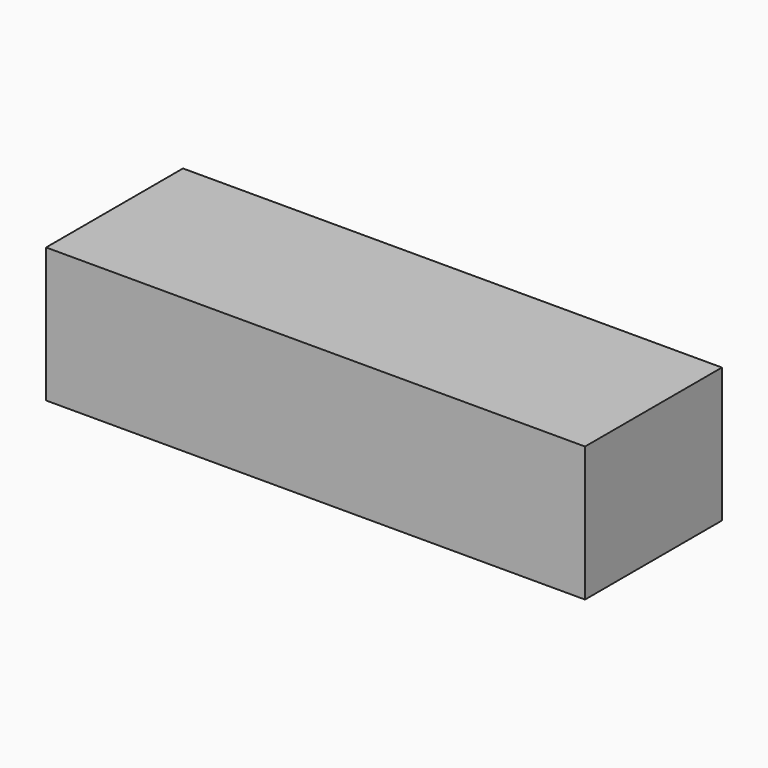
from build123d import *

# Parameters (mm, degrees)
F0_W     = 80
F0_H     = 20
F1_DEPTH = 25.4
F2_W     = 70
F2_H     = 10
F3_DEPTH = 20
F4_DEPTH = 20


with BuildPart() as f1:
    # F0 (on Front) → F1 (new body)
    with BuildSketch(Plane.XZ):
        with Locations((40, 10)):
            Rectangle(F0_W, F0_H)
    extrude(amount=F1_DEPTH)

    # F2 (on Front) → F3 (cut)
    with BuildSketch(Plane.XZ):
        with Locations((39.764389, 11.563558)):
            Rectangle(F2_W, F2_H)
    extrude(amount=-F3_DEPTH, mode=Mode.SUBTRACT)

    # F2 (on Front) → F4 (cut)
    with BuildSketch(Plane.XZ):
        with Locations((39.764389, 11.563558)):
            Rectangle(F2_W, F2_H)
    extrude(amount=F4_DEPTH, mode=Mode.SUBTRACT)


solid = f1.part
